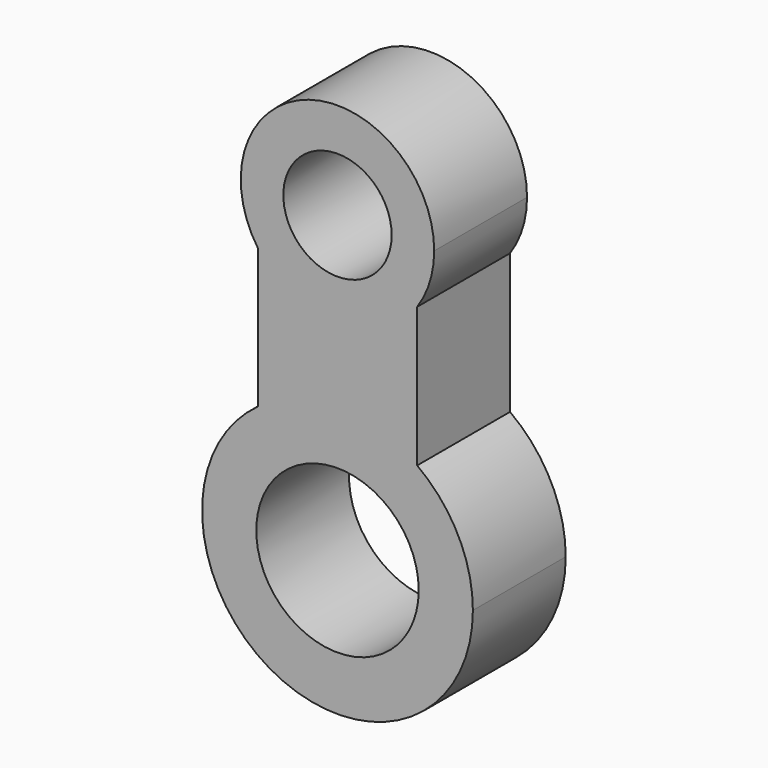
from build123d import *

# Parameters (mm, degrees)
F0_R     = 3.556
F0_R_2   = 5.334
F1_DEPTH = 7.62


with BuildPart() as f1:
    # F0 (on Front) → F1 (new body)
    with BuildSketch(Plane.XZ):
        with BuildLine():
            ThreePointArc((-5.233176, 7.186513), (0, 8.89), (5.233176, 7.186513))
            Line((5.233176, 7.186513), (5.233176, 16.354866))
            ThreePointArc((5.233176, 16.354866), (0, 13.601582), (-5.233176, 16.354866))
            Line((-5.233176, 16.354866), (-5.233176, 7.186513))
        make_face()
        with BuildLine():
            ThreePointArc((-5.233176, 16.354866), (0, 13.601582), (5.233176, 16.354866))
            ThreePointArc((5.233176, 16.354866), (6.06437, 18.068522), (6.35, 19.951582))
            ThreePointArc((6.35, 19.951582), (-1.88306, 26.015952), (-5.233176, 16.354866))
        make_face()
        with Locations((0, 19.951582)):
            Circle(F0_R, mode=Mode.SUBTRACT)
        with BuildLine():
            ThreePointArc((-5.233176, 7.186513), (-4.031697, -7.923227), (8.89, 0))
            ThreePointArc((8.89, 0), (7.923227, 4.031697), (5.233176, 7.186513))
            ThreePointArc((5.233176, 7.186513), (0, 8.89), (-5.233176, 7.186513))
        make_face()
        Circle(F0_R_2, mode=Mode.SUBTRACT)
    extrude(amount=F1_DEPTH)


solid = f1.part
